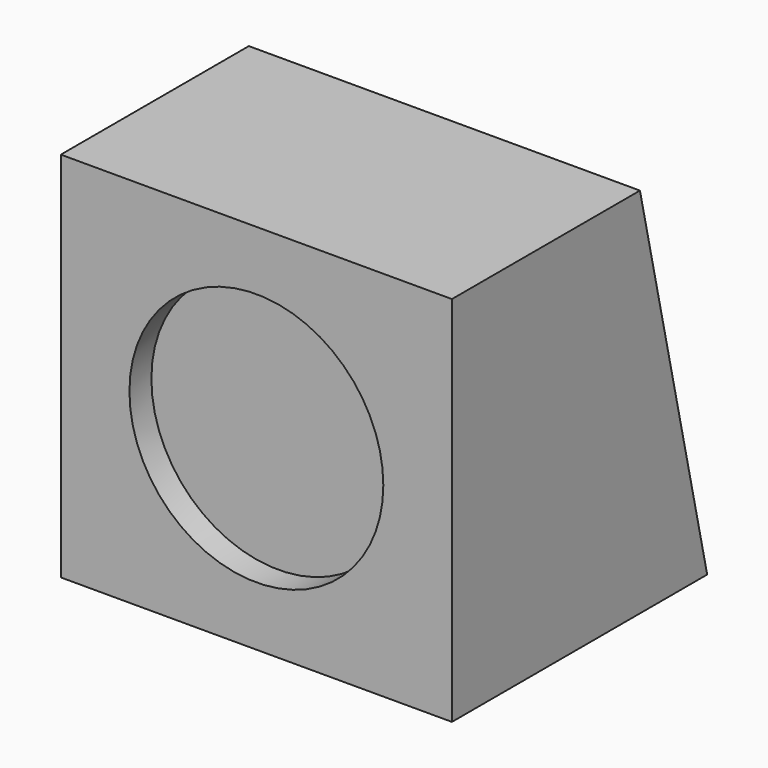
from build123d import *

# Parameters (mm, degrees)
F1_DEPTH = 361.95
F2_R     = 117.475
F3_DEPTH = 25.4


with BuildPart() as f1:
    # F0 (on Right) → F1 (new body)
    with BuildSketch(Plane.YZ):
        Polygon((0, 344.4875), (0, 0), (295.275, 0), (217.4875, 344.4875), align=None)
    extrude(amount=F1_DEPTH)

    # F2 (on face) → F3 (cut)
    with BuildSketch(Plane.XZ):
        with Locations((180.975, 172.24375)):
            Circle(F2_R)
    extrude(amount=-F3_DEPTH, mode=Mode.SUBTRACT)


solid = f1.part
